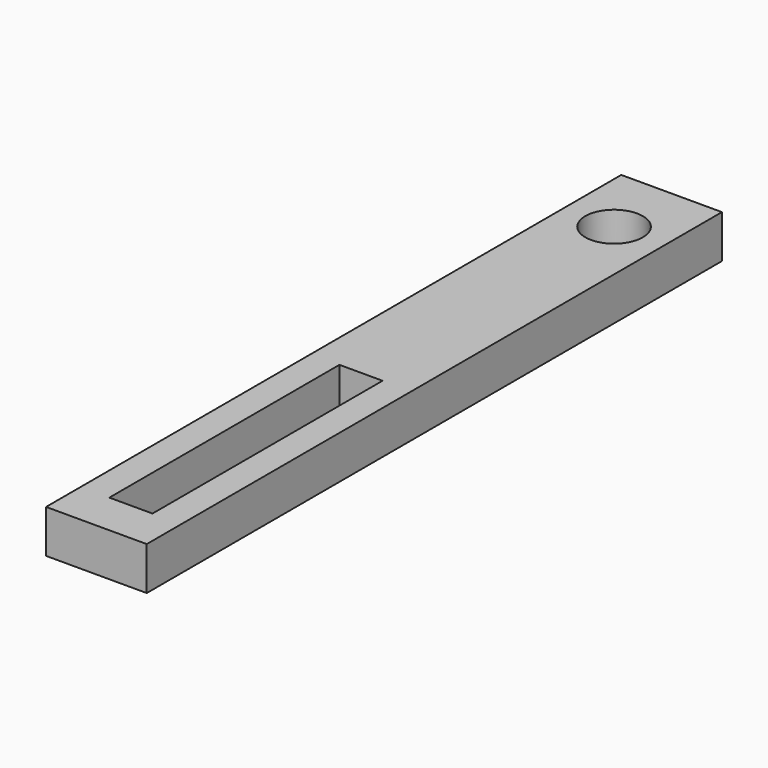
from build123d import *

# Parameters (mm, degrees)
F0_W     = 7
F0_H     = 50
F1_DEPTH = 3
F2_W     = 3
F2_H     = 20
F2_R     = 2
F3_DEPTH = 3.001


with BuildPart() as f1:
    # F0 (on Top) → F1 (new body)
    with BuildSketch(Plane.XY):
        with Locations((3.5, 25)):
            Rectangle(F0_W, F0_H)
    extrude(amount=F1_DEPTH)

    # F2 (on face) → F3 (cut, through all)
    with BuildSketch(Plane.XY.offset(3)):
        with Locations((3.5, 13)):
            Rectangle(F2_W, F2_H)
        with Locations((3.5, 45)):
            Circle(F2_R)
    extrude(amount=-F3_DEPTH, mode=Mode.SUBTRACT)


solid = f1.part
